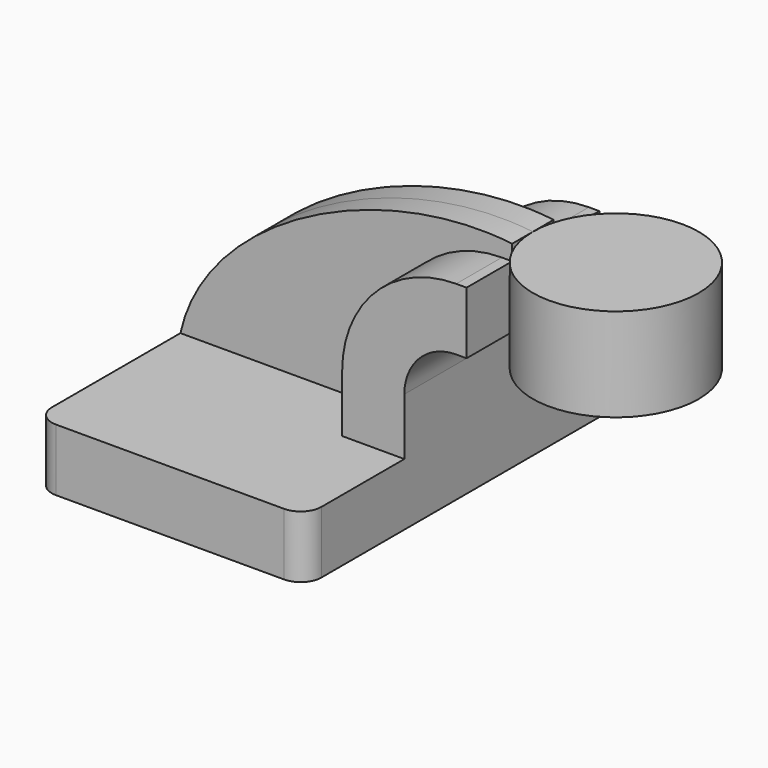
from build123d import *

# Parameters (mm, degrees)
F1_DEPTH = 63.5
F2_DEPTH = 25.4
F3_DEPTH = 7.9375
F5_R     = 6.35


with BuildPart() as f1:
    # F0 (on Front) → F1 (new body, symmetric)
    with BuildSketch(Plane.XZ):
        Polygon((22.225, 9.525), (-41.275, 9.525), (-41.275, -9.525), (41.275, -9.525), (41.275, 9.525), align=None)
    extrude(amount=F1_DEPTH, both=True)

    # F0 (on Front) → F2 (join, symmetric)
    with BuildSketch(Plane.XZ):
        with BuildLine():
            Line((22.225, 27.0002), (22.225, 9.525))
            Line((22.225, 9.525), (41.275, 9.525))
            Line((41.275, 9.525), (41.275, 27.0002))
            ThreePointArc((41.275, 27.0002), (45.92468, 38.22552), (57.15, 42.8752))
            Line((57.15, 42.8752), (60.325, 42.8752))
            Line((60.325, 42.8752), (60.325, 61.9252))
            Line((60.325, 61.9252), (57.15, 61.9252))
            ThreePointArc((57.15, 61.9252), (32.454296, 51.695904), (22.225, 27.0002))
        make_face()
    extrude(amount=F2_DEPTH, both=True)

    # F0 (on Front) → F3 (join, symmetric)
    with BuildSketch(Plane.XZ):
        with BuildLine():
            add(Edge.make_bspline(
                [(-41.275, 9.525), (-33.470261, 45.333379), (19.547464, 71.404947), (60.325, 66.675)],
                knots=[0, 0, 0, 0, 116.570504, 116.570504, 116.570504, 116.570504], degree=3))
            Line((-41.275, 9.525), (22.225, 9.525))
            Line((22.225, 9.525), (22.225, 27.0002))
            ThreePointArc((22.225, 27.0002), (32.454296, 51.695904), (57.15, 61.9252))
            Line((57.15, 61.9252), (60.325, 61.9252))
            Line((60.325, 61.9252), (60.325, 66.675))
        make_face()
    extrude(amount=F3_DEPTH, both=True)

    # F0 (on Front) → F4 (revolve)
    with BuildSketch(Plane.XZ):
        Polygon((111.125, 66.675), (85.725, 66.675), (85.725, 61.9252), (85.725, 38.1), (111.125, 38.1), align=None)
    revolve(axis=Axis((85.725, 0, 52.3875), (0, 0, 1)))

    # F5
    f5_edges = [f1.edges().sort_by_distance(p)[0] for p in [
        (-41.275, -63.5, 0),
        (-41.275, 63.5, 0),
        (41.275, -63.5, 0),
        (41.275, 63.5, 0),
    ]]
    fillet(f5_edges, radius=F5_R)


solid = f1.part
